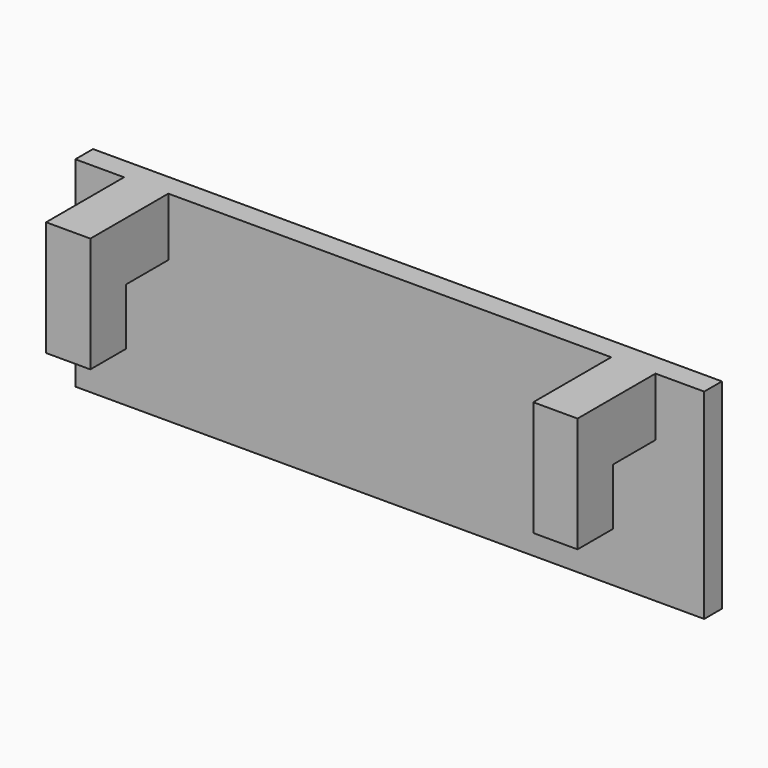
from build123d import *

# Parameters (mm, degrees)
F0_W     = 90.17
F0_H     = 28.702
F1_DEPTH = 3.175
F2_W     = 6.35
F2_H     = 8.382
F3_DEPTH = 7.62
F4_W     = 6.35
F4_H     = 6.35
F5_DEPTH = 16.51


with BuildPart() as f1:
    # F0 (on Front) → F1 (new body)
    with BuildSketch(Plane.XZ):
        with Locations((-15.599873, 4.331834)):
            Rectangle(F0_W, F0_H)
    extrude(amount=F1_DEPTH)

    # F2 (on face) → F3 (join)
    with BuildSketch(Plane.XZ.offset(3.175)):
        with Locations((-50.524873, 14.491834)):
            Rectangle(F2_W, F2_H)
        with Locations((19.325127, 14.491834)):
            Rectangle(F2_W, F2_H)
    extrude(amount=F3_DEPTH)

    # F4 (on face) → F5 (join)
    with BuildSketch(Plane.XY.offset(18.682834)):
        with Locations((-50.524873, -13.97)):
            Rectangle(F4_W, F4_H)
        with Locations((19.325127, -13.97)):
            Rectangle(F4_W, F4_H)
    extrude(amount=-F5_DEPTH)


solid = f1.part
